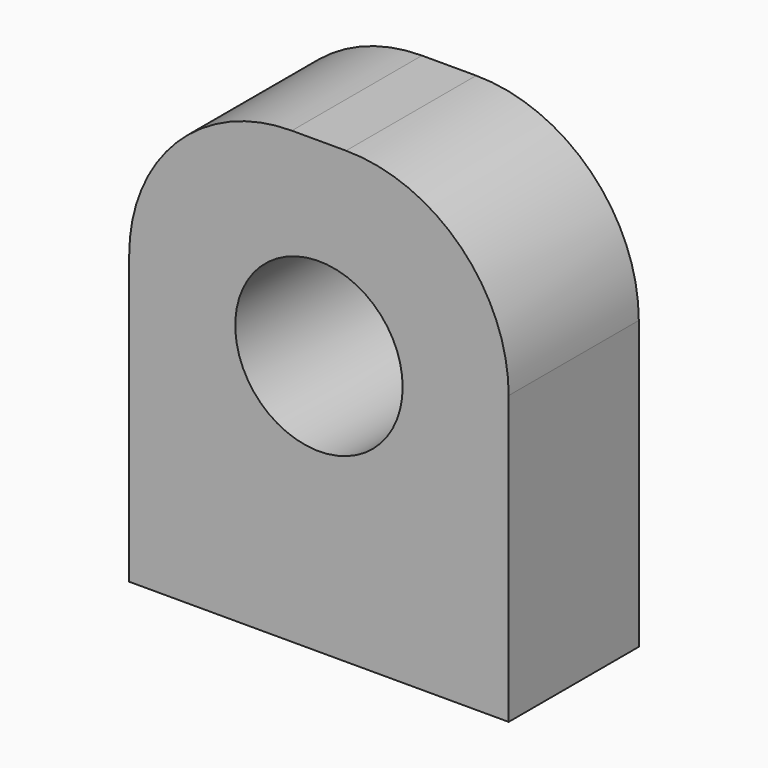
from build123d import *

# Parameters (mm, degrees)
F0_W     = 22.225
F0_H     = 26.3525
F0_R     = 4.9022
F1_DEPTH = 9.525
F2_R     = 9.525


with BuildPart() as f1:
    # F0 (on Front) → F1 (new body)
    with BuildSketch(Plane.XZ):
        with Locations((0, 13.17625)):
            Rectangle(F0_W, F0_H)
        with Locations((0, 15.24)):
            Circle(F0_R, mode=Mode.SUBTRACT)
    extrude(amount=F1_DEPTH)

    # F2
    f2_edges = [f1.edges().sort_by_distance(p)[0] for p in [
        (11.1125, -4.7625, 26.3525),
        (-11.1125, -4.7625, 26.3525),
    ]]
    fillet(f2_edges, radius=F2_R)


solid = f1.part
